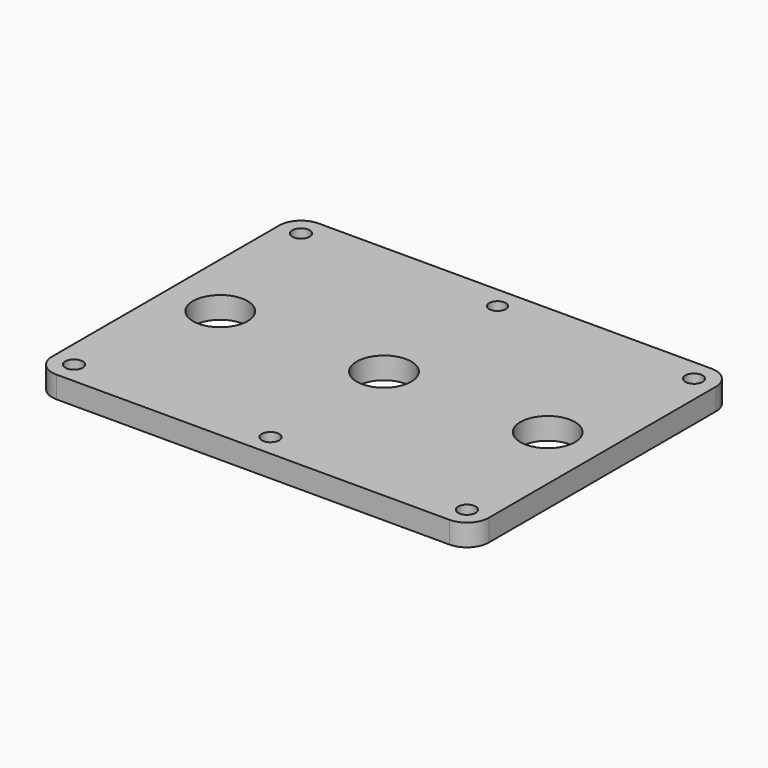
from build123d import *

# Parameters (mm, degrees)
F0_R     = 4
F0_R_2   = 12.5
F0_R_3   = 3.795856
F1_DEPTH = 10


with BuildPart() as f1:
    # F0 (on Top) → F1 (new body)
    with BuildSketch(Plane.XY):
        with BuildLine():
            ThreePointArc((100, 65), (97.071068, 72.071068), (90, 75))
            Line((90, 75), (-90, 75))
            ThreePointArc((-90, 75), (-97.071068, 72.071068), (-100, 65))
            Line((-100, 65), (-100, -65))
            ThreePointArc((-100, -65), (-97.071068, -72.071068), (-90, -75))
            Line((-90, -75), (90, -75))
            ThreePointArc((90, -75), (97.071068, -72.071068), (100, -65))
            Line((100, -65), (100, 65))
        make_face()
        with Locations((-90, -65)):
            Circle(F0_R, mode=Mode.SUBTRACT)
        with Locations((0, -65)):
            Circle(F0_R, mode=Mode.SUBTRACT)
        with Locations((90, -65)):
            Circle(F0_R, mode=Mode.SUBTRACT)
        with Locations((-75, 0)):
            Circle(F0_R_2, mode=Mode.SUBTRACT)
        with Locations((-90, 65)):
            Circle(F0_R, mode=Mode.SUBTRACT)
        Circle(F0_R_2, mode=Mode.SUBTRACT)
        with Locations((75, 0)):
            Circle(F0_R_2, mode=Mode.SUBTRACT)
        with Locations((0, 65)):
            Circle(F0_R_3, mode=Mode.SUBTRACT)
        with Locations((90, 65)):
            Circle(F0_R, mode=Mode.SUBTRACT)
    extrude(amount=F1_DEPTH)


solid = f1.part
